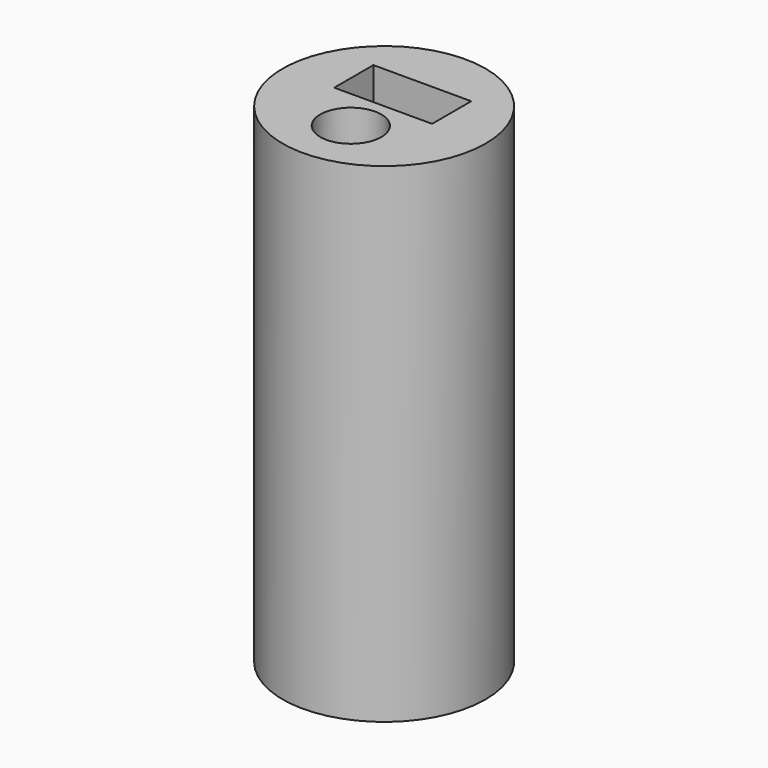
from build123d import *

# Parameters (mm, degrees)
F0_R          = 10.541
F1_DEPTH      = 25.4
F1_DEPTH_BACK = 25.4
F2_W          = 10.16
F2_H          = 5.08
F3_DEPTH      = 25.4
F3_DEPTH_BACK = 25.4
F4_R          = 3.175
F5_DEPTH      = 25.4
F5_DEPTH_BACK = 25.4


with BuildPart() as f1:
    # F0 (on Top) → F1 (new body, two sides)
    with BuildSketch(Plane.XY) as f1_sk:
        Circle(F0_R)
    extrude(amount=F1_DEPTH)
    extrude(f1_sk.sketch, amount=-F1_DEPTH_BACK)

    # F2 (on Top) → F3 (cut, two sides)
    with BuildSketch(Plane.XY) as f3_sk:
        with Locations((-0.0976234565, 2.54)):
            Rectangle(F2_W, F2_H)
    extrude(amount=-F3_DEPTH, mode=Mode.SUBTRACT)
    extrude(f3_sk.sketch, amount=F3_DEPTH_BACK, mode=Mode.SUBTRACT)

    # F4 (on Top) → F5 (cut, two sides)
    with BuildSketch(Plane.XY) as f5_sk:
        with Locations((0.0442451081, -4.3759263634)):
            Circle(F4_R)
    extrude(amount=F5_DEPTH, mode=Mode.SUBTRACT)
    extrude(f5_sk.sketch, amount=-F5_DEPTH_BACK, mode=Mode.SUBTRACT)


solid = f1.part
